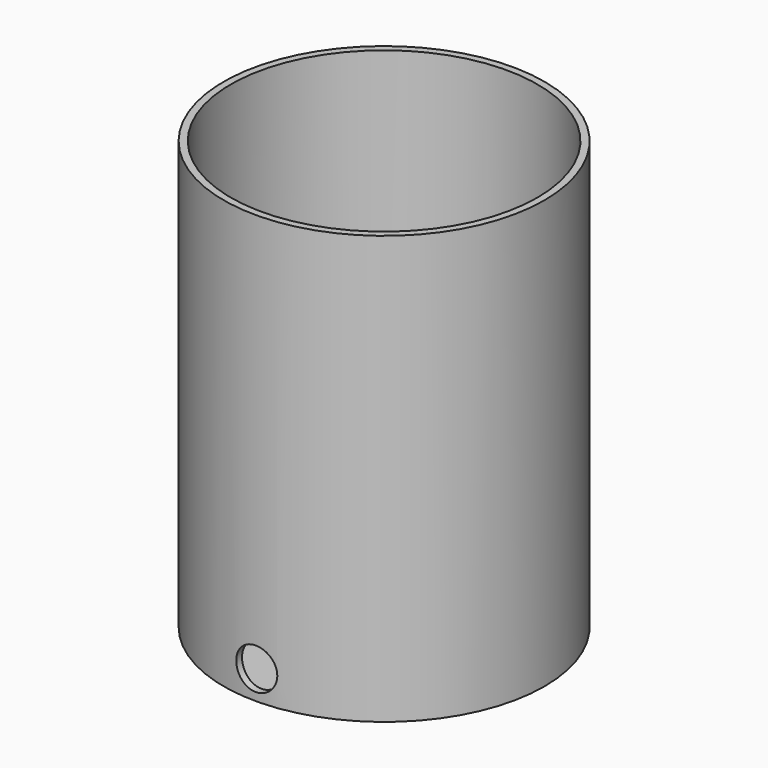
from build123d import *

# Parameters (mm, degrees)
F0_R     = 285.75
F1_DEPTH = 762
F2_T     = -12.7
F3_R     = 36.5125
F4_DEPTH = 327.66
F5_R     = 13.335
F6_DEPTH = 345.44


with BuildPart() as f1:
    # F0 (on Top) → F1 (new body)
    with BuildSketch(Plane.XY):
        Circle(F0_R)
    extrude(amount=F1_DEPTH)

    # F2
    f2_openings = [f1.faces().sort_by_distance(p)[0] for p in [
        (0, 0, 762),
    ]]
    offset(amount=F2_T, openings=f2_openings)

    # F3 (on Front) → F4 (cut)
    with BuildSketch(Plane.XZ):
        with Locations((0, 50.8)):
            Circle(F3_R)
    extrude(amount=F4_DEPTH, mode=Mode.SUBTRACT)

    # F5 (on Front) → F6 (cut)
    with BuildSketch(Plane.XZ):
        with Locations((0, 50.8)):
            Circle(F5_R)
    extrude(amount=-F6_DEPTH, mode=Mode.SUBTRACT)


solid = f1.part
